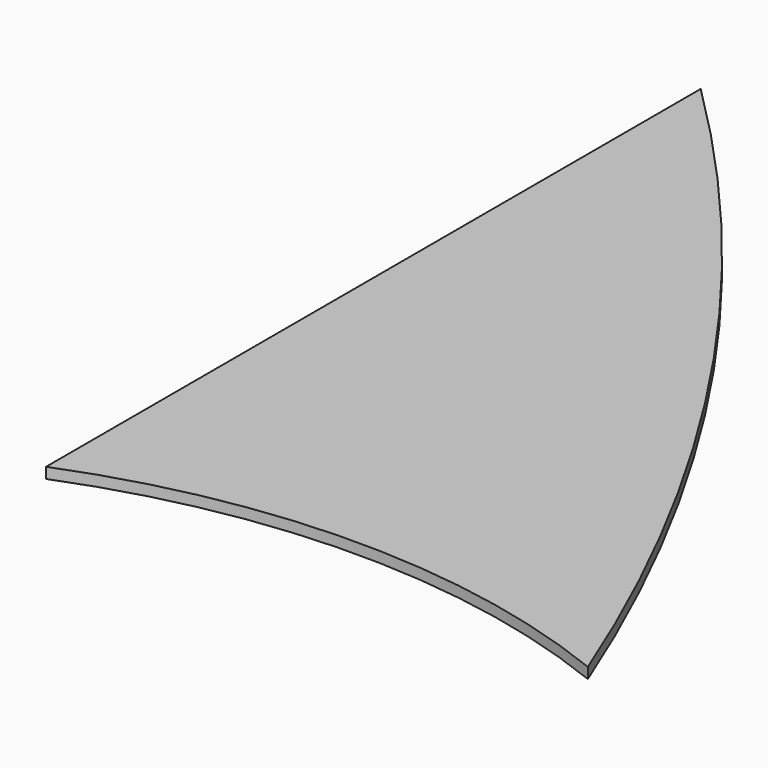
from build123d import *

# Parameters (mm, degrees)
F1_DEPTH = 2


with BuildPart() as f1:
    # F0 (on Top) → F1 (new body)
    with BuildSketch(Plane.XY):
        with BuildLine():
            ThreePointArc((31.671077, -72.387673), (-10.801438, 9.096343), (-69.235012, 80.012327))
            Line((-69.235012, 80.012327), (-69.235012, -72.387673))
            ThreePointArc((-69.235012, -72.387673), (-18.781967, -62.70145), (31.671077, -72.387673))
        make_face()
    extrude(amount=F1_DEPTH)


solid = f1.part
